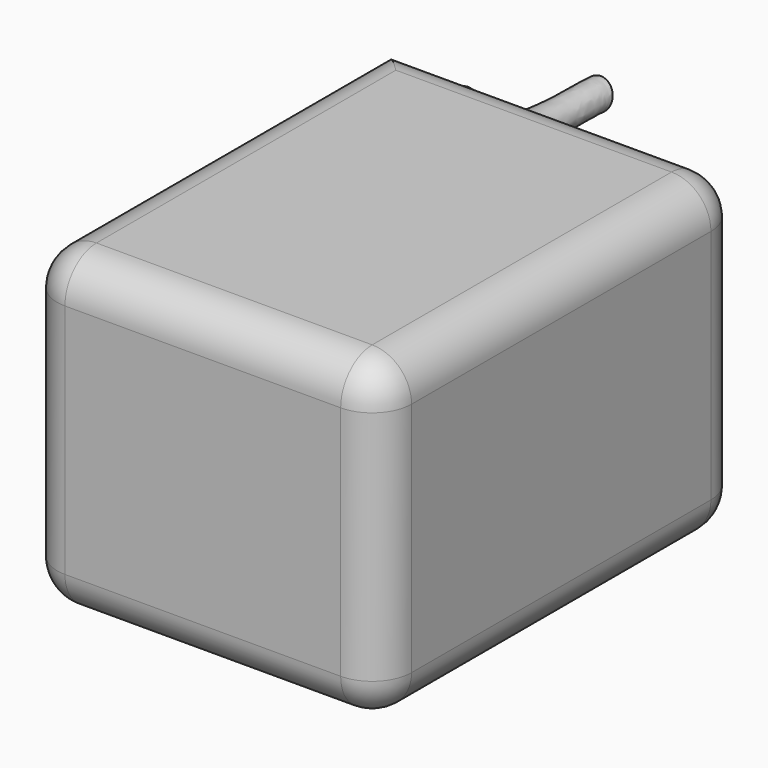
from build123d import *

# Parameters (mm, degrees)
F0_W     = 18
F0_H     = 23
F1_DEPTH = 16
F2_R     = 0.75
F8_R     = 2


with BuildPart() as f1:
    # F0 (on Top) → F1 (new body)
    with BuildSketch(Plane.XY):
        with Locations((9, 11.5)):
            Rectangle(F0_W, F0_H)
    extrude(amount=F1_DEPTH)

    # F5: sweep along a path in F4
    with BuildLine(Plane(origin=(2, 0, 0), x_dir=(0, -1, 0), z_dir=(-1, 0, 0))) as f5_path:
        add(Plane(origin=(2, 0, 0), x_dir=(0, -1, 0), z_dir=(-1, 0, 0)) * Edge.make_bspline(
            [(-23.0005215853, 3.1891802792), (-23.7749723998, 3.0223947387), (-25.4927262434, 2.6524596858), (-26.7959816722, 6.2629262385), (-32.8904530092, 6.2095022364), (-33.6051186574, 6.259200929), (-33.8062010705, 6.2731844373)],
            knots=[0, 0, 0, 0, 0.2232557328, 0.4951875392, 0.8579630796, 1, 1, 1, 1], degree=3))
    # F2 (on face) → F5 (sweep)
    with BuildSketch(Plane(origin=(0, 23, 0), x_dir=(-1, 0, 0), z_dir=(0, 1, 0))):
        with Locations((-2, 3.1886692159)):
            Circle(F2_R)
    sweep(path=f5_path.line)

    # F7: F1 across plane


with BuildPart() as f1_1:
    add(f1.part)
    add(f1.part.mirror(Plane(origin=(9, 11.5, 8), x_dir=(1, 0, 0), z_dir=(0, 0, -1))))

    # F8
    f8_edges = [f1_1.edges().sort_by_distance(p)[0] for p in [
        (0, 11.5, 16),
        (0, 11.5, 0),
        (18, 11.5, 0),
        (18, 0, 8),
        (9, 0, 0),
        (9, 0, 16),
        (0, 0, 8),
        (9, 23, 16),
        (18, 23, 8),
        (9, 23, 0),
        (18, 11.5, 16),
    ]]
    fillet(f8_edges, radius=F8_R)


solid = f1_1.part
